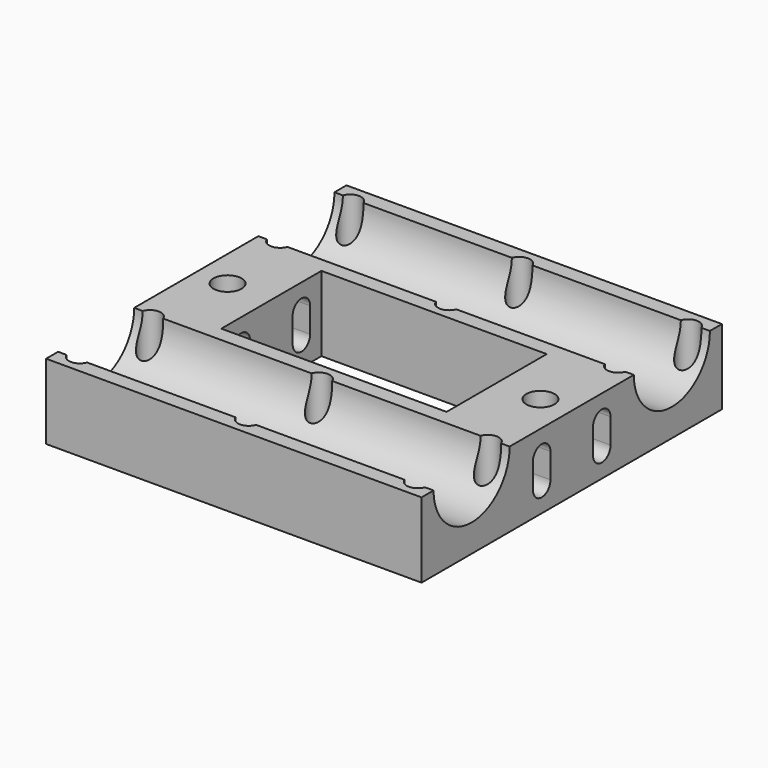
from build123d import *

# Parameters (mm, degrees)
SKETCH_W        = 60
SKETCH_H        = 60
PAD_DEPTH       = 12
SKETCH001_R     = 1.75
SKETCH001_R_2   = 2.25
POCKET_DEPTH    = 12.001
SKETCH002_R     = 7.6
POCKET001_DEPTH = 60.001
SKETCH003_W     = 36
SKETCH003_H     = 20
POCKET002_DEPTH = 12.001
POCKET003_DEPTH = 60.001


with BuildPart() as part:
    # Sketch → Pad (new body)
    with BuildSketch(Plane.XY):
        Rectangle(SKETCH_W, SKETCH_H)
    extrude(amount=PAD_DEPTH)

    # Sketch001 → Pocket (cut, through all)
    with BuildSketch(Plane(origin=(0, 0, 0), x_dir=(1, 0, 0), z_dir=(0, 0, -1))):
        with Locations((-27, 27)):
            Circle(SKETCH001_R)
        with Locations((27, 27)):
            Circle(SKETCH001_R)
        with Locations((-27, 13)):
            Circle(SKETCH001_R)
        with Locations((27, 13)):
            Circle(SKETCH001_R)
        with Locations((-27, -13)):
            Circle(SKETCH001_R)
        with Locations((-27, -27)):
            Circle(SKETCH001_R)
        with Locations((27, -13)):
            Circle(SKETCH001_R)
        with Locations((27, -27)):
            Circle(SKETCH001_R)
        with Locations((0, 27)):
            Circle(SKETCH001_R)
        with Locations((0, 13)):
            Circle(SKETCH001_R)
        with Locations((0, -13)):
            Circle(SKETCH001_R)
        with Locations((0, -27)):
            Circle(SKETCH001_R)
        with Locations((-25, 0)):
            Circle(SKETCH001_R_2)
        with Locations((25, 0)):
            Circle(SKETCH001_R_2)
    extrude(amount=-POCKET_DEPTH, mode=Mode.SUBTRACT)

    # Sketch002 → Pocket001 (cut, through all)
    with BuildSketch(Plane(origin=(-30, 0, 0), x_dir=(0, -1, 0), z_dir=(-1, 0, 0))):
        with Locations((-20, 12)):
            Circle(SKETCH002_R)
        with Locations((20, 12)):
            Circle(SKETCH002_R)
    extrude(amount=-POCKET001_DEPTH, mode=Mode.SUBTRACT)

    # Sketch003 → Pocket002 (cut, through all)
    with BuildSketch(Plane.XY.offset(12)):
        Rectangle(SKETCH003_W, SKETCH003_H)
    extrude(amount=-POCKET002_DEPTH, mode=Mode.SUBTRACT)

    # Sketch004 → Pocket003 (cut, through all)
    with BuildSketch(Plane(origin=(-30, 0, 0), x_dir=(0, -1, 0), z_dir=(-1, 0, 0))):
        with BuildLine():
            ThreePointArc((-7.748793, 4.000005), (-6, 2.251207), (-4.251207, 4.000005))
            Line((-4.251207, 7.999989), (-4.251207, 4.000005))
            ThreePointArc((-4.251207, 7.999989), (-6, 9.748793), (-7.748793, 7.999989))
            Line((-7.748793, 4.000005), (-7.748793, 7.999989))
        make_face()
        with BuildLine():
            ThreePointArc((4.251207, 4), (6, 2.251207), (7.748793, 4))
            Line((7.748793, 8), (7.748793, 4))
            ThreePointArc((7.748793, 8), (6, 9.748793), (4.251207, 8))
            Line((4.251207, 8), (4.251207, 4))
        make_face()
    extrude(amount=-POCKET003_DEPTH, mode=Mode.SUBTRACT)


solid = part.part
